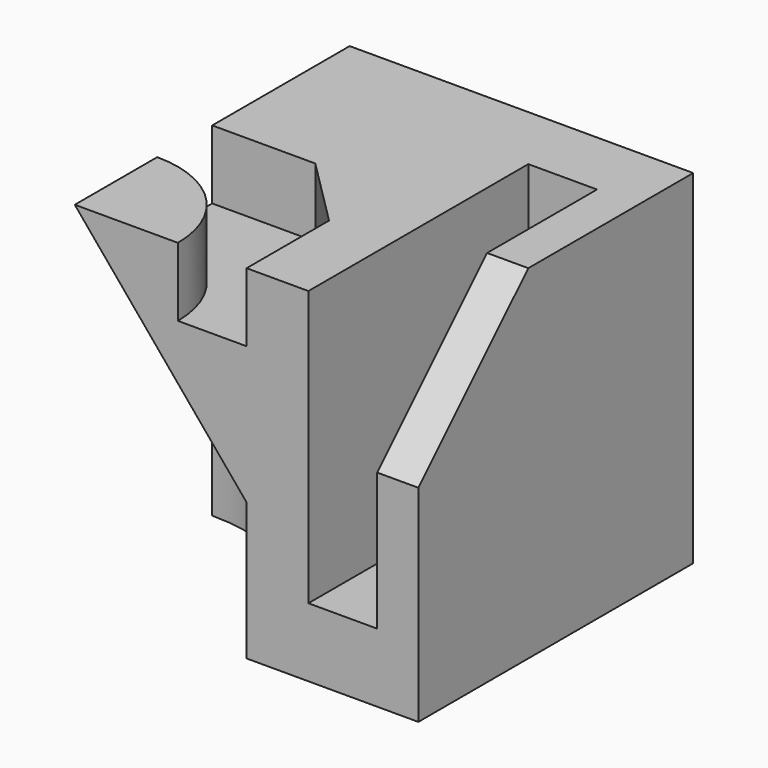
from build123d import *

# Parameters (mm, degrees)
F0_W     = 50
F0_H     = 50
F1_DEPTH = 50
F2_W     = 10
F2_H     = 40
F3_DEPTH = 40
F4_R     = 10
F8_DEPTH = 10
F9_SIZE  = 10
F10_SIZE = 20


with BuildPart() as f1:
    # F0 (on Top) → F1 (new body)
    with BuildSketch(Plane.XY):
        with Locations((25, 25)):
            Rectangle(F0_W, F0_H)
    extrude(amount=F1_DEPTH)

    # F2 (on face) → F3 (cut)
    with BuildSketch(Plane.XZ):
        with Locations((39, 30)):
            Rectangle(F2_W, F2_H)
    extrude(amount=-F3_DEPTH, mode=Mode.SUBTRACT)

    # F4
    f4_edges = [f1.edges().sort_by_distance(p)[0] for p in [
        (39, 40, 10),
    ]]
    fillet(f4_edges, radius=F4_R)

    # F5 (on face) → F6 (revolve, cut)
    with BuildSketch(Plane.XZ):
        Polygon((25, 20), (0, 50), (0, 0), (25, 0), align=None)
    revolve(axis=Axis((0, 0, 25), (0, 0, 1)), mode=Mode.SUBTRACT)

    # F7 (on face) → F8 (cut)
    with BuildSketch(Plane.XY.offset(50)):
        with BuildLine():
            ThreePointArc((0, 15), (10.6066017178, 10.6066017178), (15, 0))
            Line((15, 0), (25, 0))
            Line((25, 0), (25, 25))
            Line((25, 25), (0, 25))
            Line((0, 25), (0, 15))
        make_face()
    extrude(amount=-F8_DEPTH, mode=Mode.SUBTRACT)

    # F9
    f9_edges = [f1.edges().sort_by_distance(p)[0] for p in [
        (25, 25, 45),
    ]]
    chamfer(f9_edges, length=F9_SIZE)

    # F10
    f10_edges = [f1.edges().sort_by_distance(p)[0] for p in [
        (47, 0, 50),
    ]]
    chamfer(f10_edges, length=F10_SIZE)


solid = f1.part
